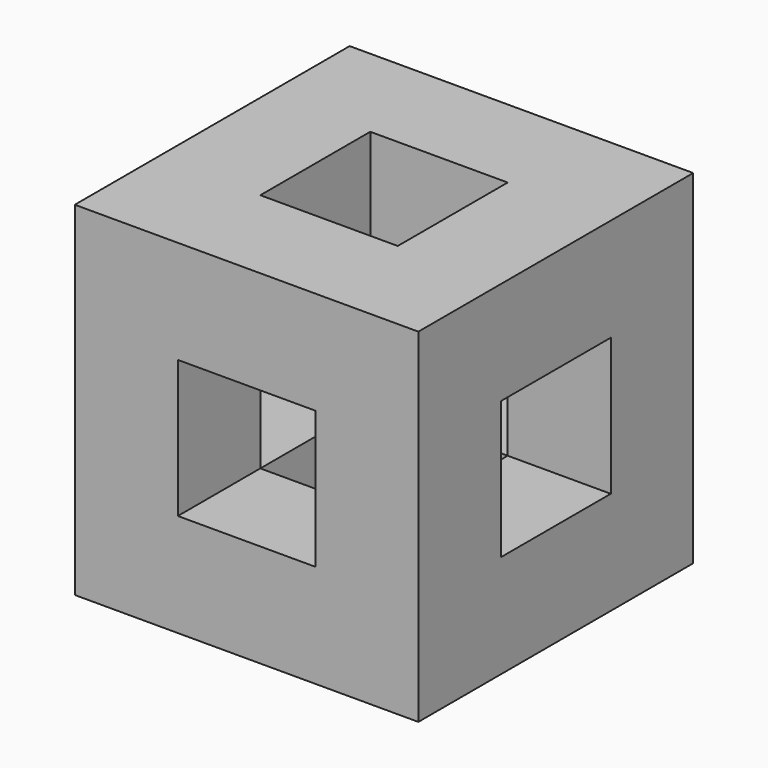
from build123d import *

# Parameters (mm, degrees)
F0_W      = 50
F0_H      = 50
F1_DEPTH  = 25
F2_W      = 20
F2_H      = 20
F3_DEPTH  = 50
F4_W      = 20
F4_H      = 20
F5_DEPTH  = 15
F6_W      = 20
F6_H      = 20
F7_DEPTH  = 15
F8_W      = 20
F8_H      = 20
F9_DEPTH  = 15
F10_W     = 20
F10_H     = 20
F11_DEPTH = 15


with BuildPart() as f1:
    # F0 (on Front) → F1 (new body, symmetric)
    with BuildSketch(Plane.XZ):
        Rectangle(F0_W, F0_H)
    extrude(amount=F1_DEPTH, both=True)

    # F2 (on face) → F3 (cut, through all)
    with BuildSketch(Plane.XZ.offset(25)):
        Rectangle(F2_W, F2_H)
    extrude(amount=-F3_DEPTH, mode=Mode.SUBTRACT)

    # F4 (on face) → F5 (cut, through all)
    with BuildSketch(Plane(origin=(-25, 0, 0), x_dir=(0, -1, 0), z_dir=(-1, 0, 0))):
        Rectangle(F4_W, F4_H)
    extrude(amount=-F5_DEPTH, mode=Mode.SUBTRACT)

    # F6 (on face) → F7 (cut, through all)
    with BuildSketch(Plane.YZ.offset(25)):
        Rectangle(F6_W, F6_H)
    extrude(amount=-F7_DEPTH, mode=Mode.SUBTRACT)

    # F8 (on face) → F9 (cut, through all)
    with BuildSketch(Plane.XY.offset(25)):
        Rectangle(F8_W, F8_H)
    extrude(amount=-F9_DEPTH, mode=Mode.SUBTRACT)

    # F10 (on face) → F11 (cut, through all)
    with BuildSketch(Plane(origin=(0, 0, -25), x_dir=(1, 0, 0), z_dir=(0, 0, -1))):
        Rectangle(F10_W, F10_H)
    extrude(amount=-F11_DEPTH, mode=Mode.SUBTRACT)


solid = f1.part
